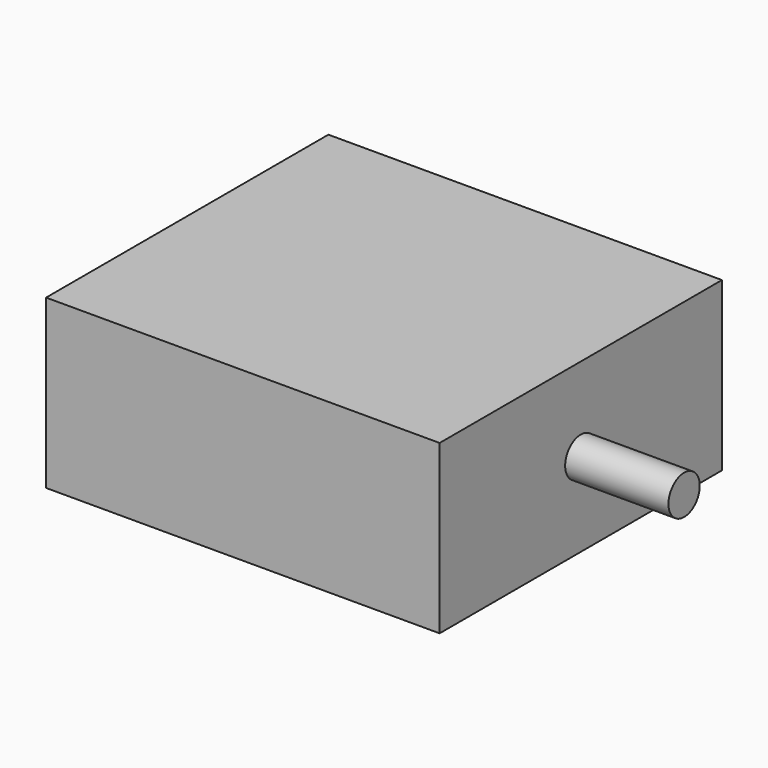
from build123d import *

# Parameters (mm, degrees)
F0_W     = 31.23
F0_H     = 28
F1_DEPTH = 13.3
F2_R     = 1.55
F3_DEPTH = 8.2


with BuildPart() as f1:
    # F0 (on Top) → F1 (new body)
    with BuildSketch(Plane.XY):
        Rectangle(F0_W, F0_H)
    extrude(amount=F1_DEPTH)

    # F2 (on face) → F3 (join)
    with BuildSketch(Plane.YZ.offset(15.615)):
        with Locations((0, 6.65)):
            Circle(F2_R)
    extrude(amount=F3_DEPTH)


solid = f1.part
